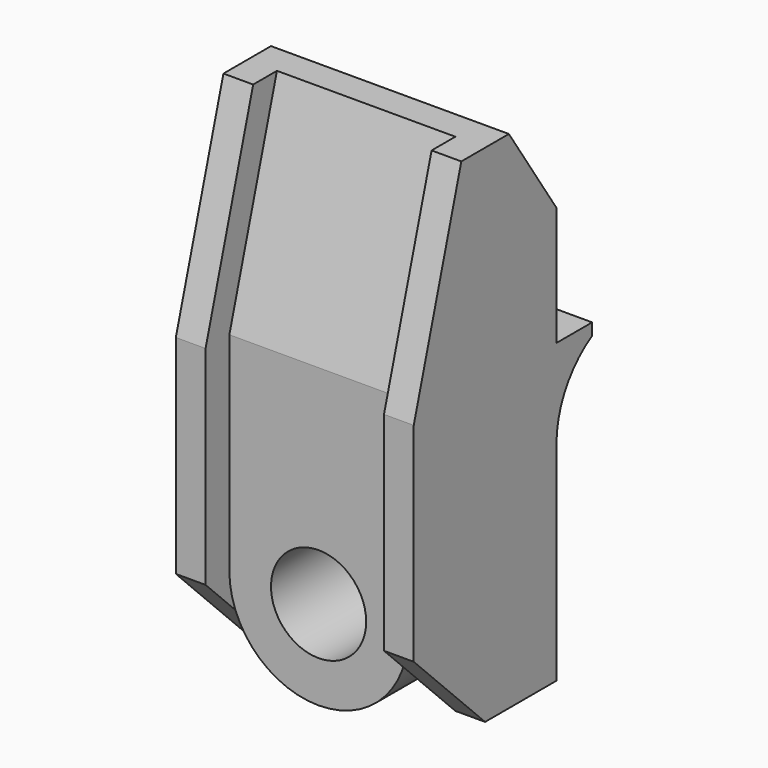
from build123d import *

# Parameters (mm, degrees)
CYLINDER460_R     = 1.6
CYLINDER460_DEPTH = 10
CYLINDER461_R     = 3
CYLINDER461_DEPTH = 3
BOX316_W          = 8
BOX316_H          = 7.5
BOX316_DEPTH      = 17
CHAMFER036_SIZE   = 3
CHAMFER037_SIZE2  = 2
CHAMFER037_SIZE   = 7
BOX317_W          = 6
BOX317_H          = 7.5
BOX317_DEPTH      = 17
BOX314_W          = 10
BOX314_H          = 3
BOX314_DEPTH      = 12
BOX313_W          = 10
BOX313_H          = 3
BOX313_DEPTH      = 12
FILLET112_R       = 2.99
BOX312_W          = 8
BOX312_H          = 7.5
BOX312_DEPTH      = 17
CHAMFER033_SIZE   = 3
CHAMFER034_SIZE2  = 2
CHAMFER034_SIZE   = 7
CHAMFER035_SIZE2  = 3
CHAMFER035_SIZE   = 2


with BuildPart() as cylinder574:
    # Cylinder460 → Cylinder460 (new body)
    with BuildSketch(Plane(origin=(120, -21, 13), x_dir=(1, 0, 0), z_dir=(0, 1, 0))):
        Circle(CYLINDER460_R)
    extrude(amount=CYLINDER460_DEPTH)


with BuildPart() as cylinder575:
    # Cylinder461 → Cylinder461 (new body)
    with BuildSketch(Plane(origin=(120, -15, 13), x_dir=(1, 0, 0), z_dir=(0, 1, 0))):
        Circle(CYLINDER461_R)
    extrude(amount=CYLINDER461_DEPTH)


with BuildPart() as chamfer037:
    # Box316 → Box316 (new body)
    with BuildSketch(Plane(origin=(116, -16, 10), x_dir=(1, 0, 0), z_dir=(0, 0, 1))):
        with Locations((4, 3.75)):
            Rectangle(BOX316_W, BOX316_H)
    extrude(amount=BOX316_DEPTH)

    # Chamfer036
    chamfer036_edges = [chamfer037.edges().sort_by_distance(p)[0] for p in [
        (120, -16, 10),
    ]]
    chamfer(chamfer036_edges, length=CHAMFER036_SIZE)

    # Chamfer037
    chamfer037_edges = [chamfer037.edges().sort_by_distance(p)[0] for p in [
        (120, -16, 27),
    ]]
    chamfer037_side = chamfer037.faces().sort_by_distance((120, -16, 20))[0]
    chamfer(chamfer037_edges, length=CHAMFER037_SIZE, length2=CHAMFER037_SIZE2, reference=chamfer037_side)


with BuildPart() as cut312:
    # Box317 → Box317 (new body)
    with BuildSketch(Plane(origin=(117, -20, 10), x_dir=(1, 0, 0), z_dir=(0, 0, 1))):
        with Locations((3, 3.75)):
            Rectangle(BOX317_W, BOX317_H)
    extrude(amount=BOX317_DEPTH)

    # Cut312: cut Chamfer037
    add(chamfer037.part, mode=Mode.SUBTRACT)


with BuildPart() as cut312_1:
    # Cut312 placement: moved
    add(cut312.part.moved(Location((0, 1, 0))))


with BuildPart() as cube385:
    # Box314 → Box314 (new body)
    with BuildSketch(Plane(origin=(116, -10, 20), x_dir=(1, 0, 0), z_dir=(0, 0, 1))):
        with Locations((5, 1.5)):
            Rectangle(BOX314_W, BOX314_H)
    extrude(amount=BOX314_DEPTH)


with BuildPart() as fillet112:
    # Box313 → Box313 (new body)
    with BuildSketch(Plane(origin=(116, -10, 8), x_dir=(1, 0, 0), z_dir=(0, 0, 1))):
        with Locations((5, 1.5)):
            Rectangle(BOX313_W, BOX313_H)
    extrude(amount=BOX313_DEPTH)

    # Fillet112
    fillet112_edges = [fillet112.edges().sort_by_distance(p)[0] for p in [
        (121, -10, 20),
    ]]
    fillet(fillet112_edges, radius=FILLET112_R)


with BuildPart() as kipper_holder_left:
    # Box312 → Box312 (new body)
    with BuildSketch(Plane(origin=(116, -16, 10), x_dir=(1, 0, 0), z_dir=(0, 0, 1))):
        with Locations((4, 3.75)):
            Rectangle(BOX312_W, BOX312_H)
    extrude(amount=BOX312_DEPTH)

    # Chamfer033
    chamfer033_edges = [kipper_holder_left.edges().sort_by_distance(p)[0] for p in [
        (120, -16, 10),
    ]]
    chamfer(chamfer033_edges, length=CHAMFER033_SIZE)

    # Chamfer034
    chamfer034_edges = [kipper_holder_left.edges().sort_by_distance(p)[0] for p in [
        (120, -16, 27),
    ]]
    chamfer034_side = kipper_holder_left.faces().sort_by_distance((120, -16, 20))[0]
    chamfer(chamfer034_edges, length=CHAMFER034_SIZE, length2=CHAMFER034_SIZE2, reference=chamfer034_side)

    # Cut310: cut Fillet112
    add(fillet112.part, mode=Mode.SUBTRACT)

    # Cut311: cut Cube385
    add(cube385.part, mode=Mode.SUBTRACT)

    # Chamfer035
    chamfer035_edges = [kipper_holder_left.edges().sort_by_distance(p)[0] for p in [
        (120, -10, 27),
    ]]
    chamfer035_side = kipper_holder_left.faces().sort_by_distance((120, -12, 27))[0]
    chamfer(chamfer035_edges, length=CHAMFER035_SIZE, length2=CHAMFER035_SIZE2, reference=chamfer035_side)

    # Cut313: cut Cut312
    add(cut312_1.part, mode=Mode.SUBTRACT)

    # Fusion416: union Cylinder575
    add(cylinder575.part)

    # Cut314: cut Cylinder574
    add(cylinder574.part, mode=Mode.SUBTRACT)


solid = kipper_holder_left.part
